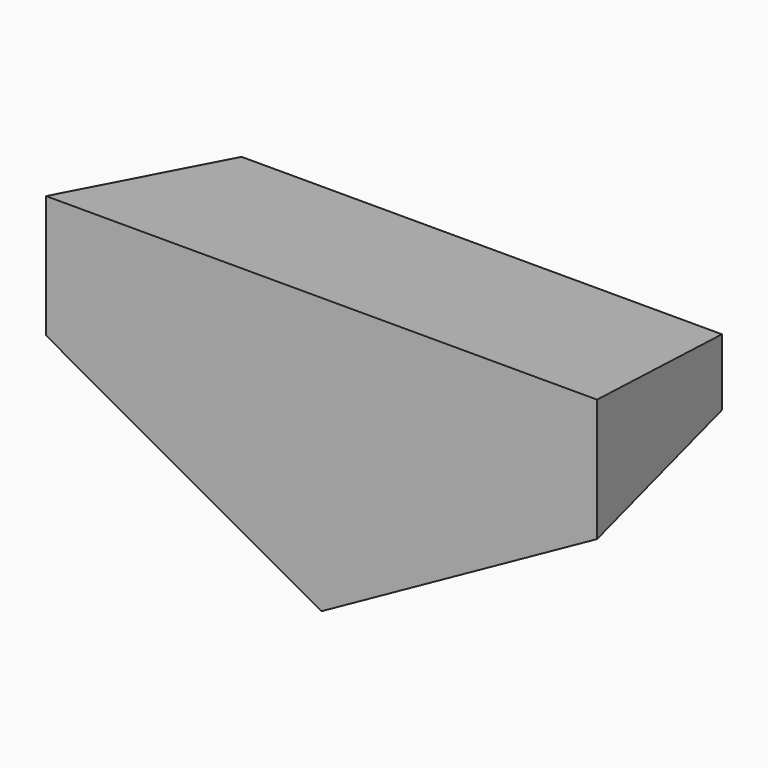
from build123d import *

# Parameters (mm, degrees)
F1_DEPTH = 19.05
F1_TAPER = -10


with BuildPart() as f1:
    # F0 (on Front) → F1 (new body)
    with BuildSketch(Plane.XZ):
        Polygon((6.3188821977, 0), (-16.5411178023, 0), (-16.5411178023, -6.35), (6.3188821977, -19.05), align=None)
        Polygon((29.1788821977, 0), (6.3188821977, 0), (6.3188821977, -19.05), (29.1788821977, -6.35), align=None)
    extrude(amount=F1_DEPTH, taper=F1_TAPER)


solid = f1.part
